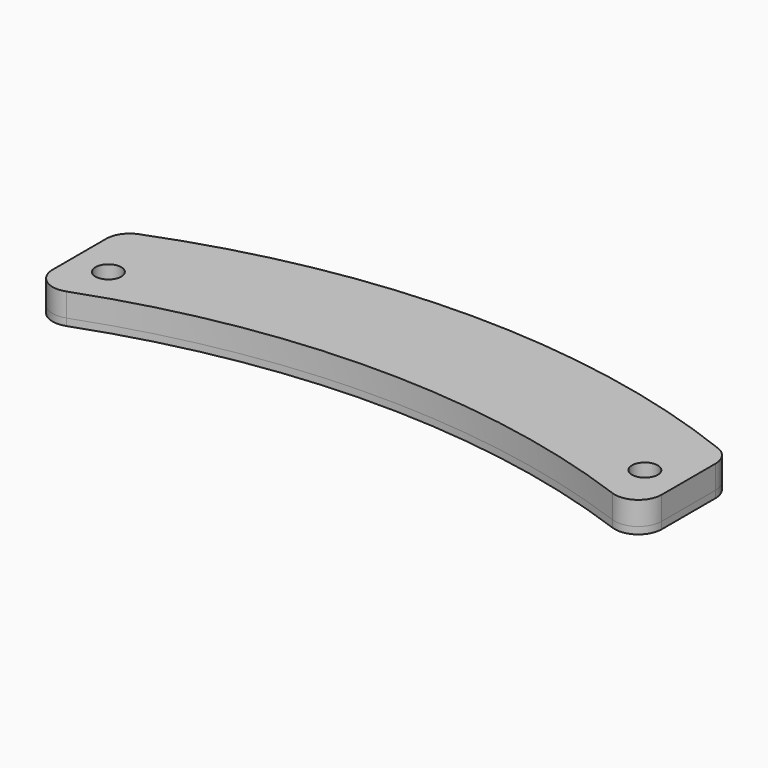
from build123d import *

# Parameters (mm, degrees)
F0_R     = 2.75
F1_DEPTH = 5
F2_DEPTH = 1.5
F3_R     = 5
F3_2_R   = 5


with BuildPart() as f1:
    # F0 (on Top) → F1 (new body)
    with BuildSketch(Plane.XY):
        with BuildLine():
            ThreePointArc((-65, -12.5), (0, 0.443714), (65, -12.5))
            Line((65, -12.5), (65, 12.5))
            ThreePointArc((65, 12.5), (0, 25.443714), (-65, 12.5))
            Line((-65, 12.5), (-65, -12.5))
        make_face()
        with Locations((-57.25, 0)):
            Circle(F0_R, mode=Mode.SUBTRACT)
        with Locations((57.25, 0)):
            Circle(F0_R, mode=Mode.SUBTRACT)
    extrude(amount=F1_DEPTH)

    # F3
    f3_edges = [f1.edges().sort_by_distance(p)[0] for p in [
        (-65, -12.5, 2.5),
        (65, -12.5, 2.5),
        (65, 12.5, 2.5),
        (-65, 12.5, 2.5),
    ]]
    fillet(f3_edges, radius=F3_R)


with BuildPart() as f2:
    # F0 (on Top) → F2 (new body)
    with BuildSketch(Plane.XY):
        with BuildLine():
            ThreePointArc((-65, -12.5), (0, 0.443714), (65, -12.5))
            Line((65, -12.5), (65, 12.5))
            ThreePointArc((65, 12.5), (0, 25.443714), (-65, 12.5))
            Line((-65, 12.5), (-65, -12.5))
        make_face()
        with Locations((-57.25, 0)):
            Circle(F0_R, mode=Mode.SUBTRACT)
        with Locations((57.25, 0)):
            Circle(F0_R, mode=Mode.SUBTRACT)
    extrude(amount=-F2_DEPTH)

    # F3#2
    f3_2_edges = [f2.edges().sort_by_distance(p)[0] for p in [
        (-65, -12.5, -0.75),
        (65, -12.5, -0.75),
        (65, 12.5, -0.75),
        (-65, 12.5, -0.75),
    ]]
    fillet(f3_2_edges, radius=F3_2_R)


solid = Compound([f1.part, f2.part])
